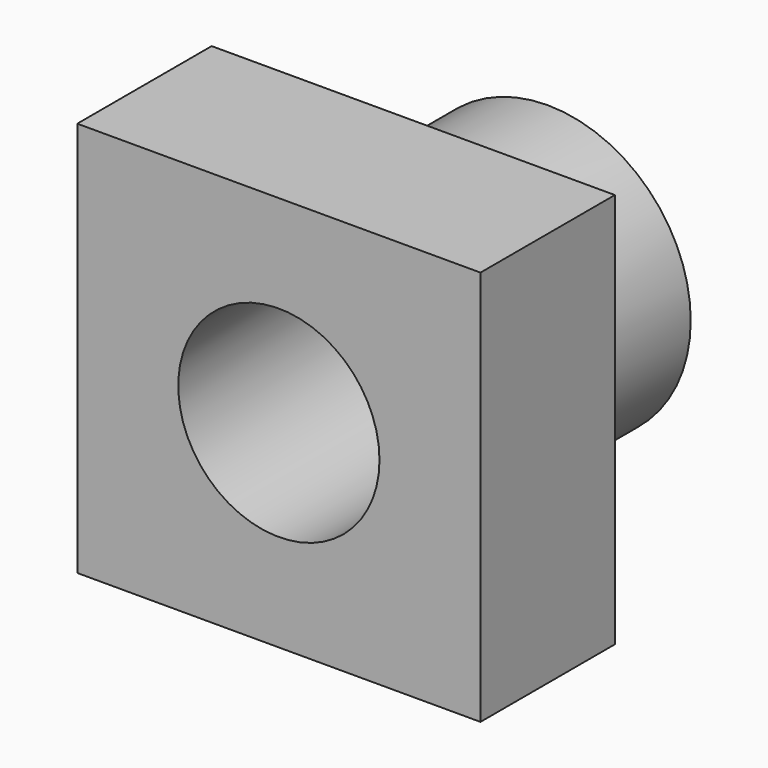
from build123d import *

# Parameters (mm, degrees)
F0_W      = 60.959998
F0_H      = 59.805452
F1_DEPTH  = 25.4
F2_R      = 21.630453
F2_R_2    = 15.213086
F3_DEPTH  = 25.4
F3_FACE_R = 15.213086
F4_DEPTH  = 25.4


with BuildPart() as f1:
    # F0 (on Front) → F1 (new body)
    with BuildSketch(Plane.XZ):
        Rectangle(F0_W, F0_H)
    extrude(amount=F1_DEPTH)

    # F2 (on Front) → F3 (join, symmetric)
    with BuildSketch(Plane.XZ):
        Circle(F2_R)
        Circle(F2_R_2, mode=Mode.SUBTRACT)
    extrude(amount=F3_DEPTH, both=True)

    # F3_face (on face) → F4 (cut)
    with BuildSketch(Plane(origin=(0, 0, 0), x_dir=(1, 0, 0), z_dir=(0, 1, 0))):
        Circle(F3_FACE_R)
    extrude(amount=-F4_DEPTH, mode=Mode.SUBTRACT)


solid = f1.part
